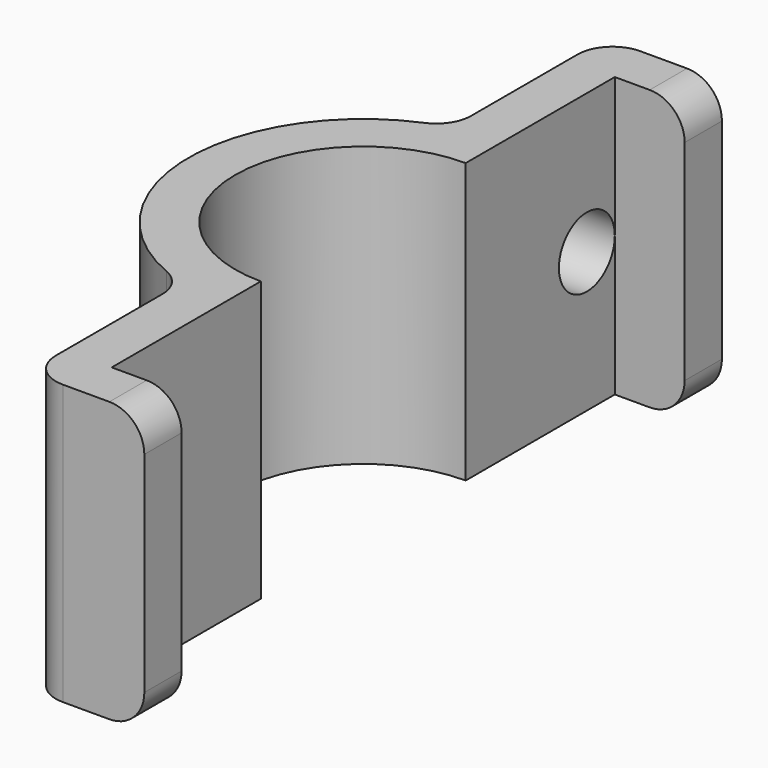
from build123d import *

# Parameters (mm, degrees)
F1_DEPTH = 76.2
F2_R     = 9.525
F3_DEPTH = 25.4
F4_R     = 9.525


with BuildPart() as f1:
    # F0 (on Top) → F1 (new body)
    with BuildSketch(Plane.XY):
        with BuildLine():
            ThreePointArc((0, -34.925), (-34.925, 0), (0, 34.925))
            Line((0, 34.925), (0, 47.625))
            Line((0, 47.625), (0, 56.876238))
            Line((0, 56.876238), (0, 85.725))
            Line((0, 85.725), (19.05, 85.725))
            Line((19.05, 85.725), (19.05, 98.425))
            Line((19.05, 98.425), (-12.7, 98.425))
            Line((-12.7, 98.425), (-12.7, 45.900443))
            ThreePointArc((-12.7, 45.900443), (-47.625, 0), (-12.7, -45.900443))
            Line((-12.7, -45.900443), (-12.7, -98.425))
            Line((-12.7, -98.425), (19.05, -98.425))
            Line((19.05, -98.425), (19.05, -85.725))
            Line((19.05, -85.725), (0, -85.725))
            Line((0, -85.725), (0, -47.625))
            Line((0, -47.625), (0, -34.925))
        make_face()
    extrude(amount=F1_DEPTH)

    # F2 (on face) → F3 (cut)
    with BuildSketch(Plane(origin=(-12.7, 0, 0), x_dir=(0, -1, 0), z_dir=(-1, 0, 0))):
        with Locations((-76.2, 38.1)):
            Circle(F2_R)
        with Locations((76.2, 38.1)):
            Circle(F2_R)
    extrude(amount=-F3_DEPTH, mode=Mode.SUBTRACT)

    # F4
    f4_edges = [f1.edges().sort_by_distance(p)[0] for p in [
        (-12.7, -45.900443, 38.1),
        (-12.7, 45.900443, 38.1),
        (-12.7, 98.425, 38.1),
        (-12.7, -98.425, 38.1),
        (19.05, -92.075, 0),
        (19.05, 92.075, 0),
        (19.05, 92.075, 76.2),
        (19.05, -92.075, 76.2),
    ]]
    fillet(f4_edges, radius=F4_R)


solid = f1.part
